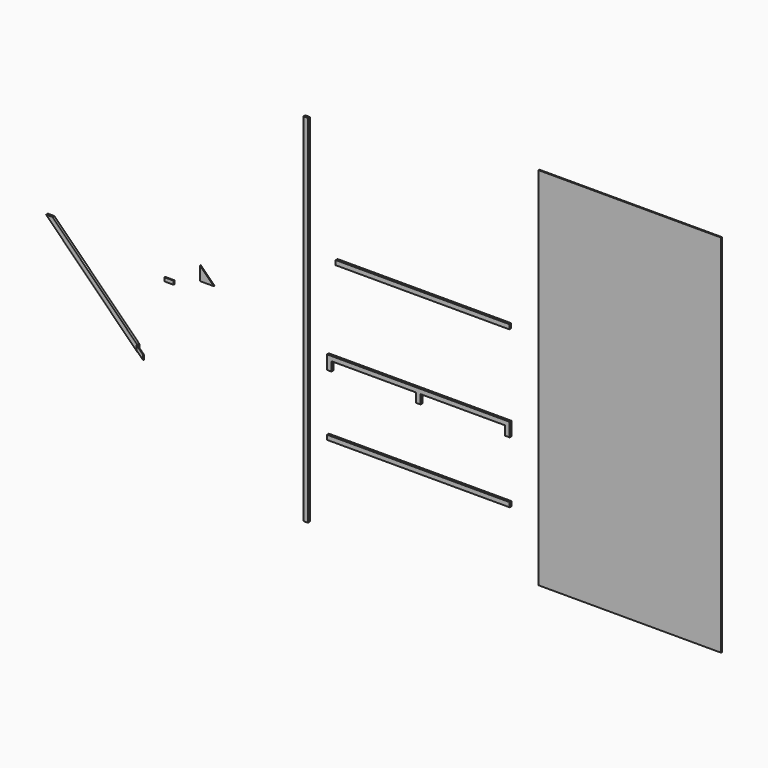
from build123d import *

# Parameters (mm, degrees)
F0_W      = 2000
F0_H      = 50
F1_DEPTH  = 25
F2_W      = 50
F2_H      = 3900
F3_DEPTH  = 25
F5_DEPTH  = 25
F6_W      = 1900
F6_H      = 50
F7_DEPTH  = 25
F9_DEPTH  = 25
F11_DEPTH = 10
F12_W     = 100
F12_H     = 40
F13_DEPTH = 10
F15_DEPTH = 10
F16_W     = 2000
F16_H     = 4000
F17_DEPTH = 12


with BuildPart() as f1:
    # F0 (on Front) → F1 (new body)
    with BuildSketch(Plane.XZ):
        with Locations((1000, -25)):
            Rectangle(F0_W, F0_H)
    extrude(amount=F1_DEPTH)


with BuildPart() as f3:
    # F2 (on Front) → F3 (new body)
    with BuildSketch(Plane.XZ):
        with Locations((-233.900586, 1033.445787)):
            Rectangle(F2_W, F2_H)
    extrude(amount=F3_DEPTH)


with BuildPart() as f5:
    # F4 (on Front) → F5 (new body)
    with BuildSketch(Plane.XZ):
        Polygon((2000, 774.034464), (0, 774.034464), (0, 624.034464), (50, 624.034464), (50, 724.034464), (975, 724.034464), (975, 624.034464), (1025, 624.034464), (1025, 724.034464), (1950, 724.034464), (1950, 624.034464), (2000, 624.034464), align=None)
    extrude(amount=F5_DEPTH)


with BuildPart() as f7:
    # F6 (on Front) → F7 (new body)
    with BuildSketch(Plane.XZ):
        with Locations((1045.526671, 1688.731456)):
            Rectangle(F6_W, F6_H)
    extrude(amount=F7_DEPTH)


with BuildPart() as f9:
    # F8 (on Front) → F9 (new body)
    with BuildSketch(Plane.XZ):
        Polygon((-3004.318933, 1120.322466), (-3075.029612, 1120.322466), (-2075.029612, 120.322466), (-2075.029612, 191.033144), align=None)
    extrude(amount=F9_DEPTH)


with BuildPart() as f11:
    # F10 (on face) → F11 (new body)
    with BuildSketch(Plane.XZ.offset(25)):
        Polygon((-2004.318933, 120.322466), (-2075.029612, 191.033144), (-2075.029612, 141.033144), (-2004.318933, 70.322466), align=None)
    extrude(amount=F11_DEPTH)


with BuildPart() as f13:
    # F12 (on Front) → F13 (new body)
    with BuildSketch(Plane.XZ):
        with Locations((-1741.714168, 908.225138)):
            Rectangle(F12_W, F12_H)
    extrude(amount=F13_DEPTH)


with BuildPart() as f15:
    # F14 (on Front) → F15 (new body)
    with BuildSketch(Plane.XZ):
        Polygon((-1251.659489, 1017.606497), (-1401.659489, 1167.606497), (-1401.659489, 1017.606497), align=None)
    extrude(amount=F15_DEPTH)


with BuildPart() as f17:
    # F16 (on Front) → F17 (new body)
    with BuildSketch(Plane.XZ):
        with Locations((3302.350998, 1293.105304)):
            Rectangle(F16_W, F16_H)
    extrude(amount=F17_DEPTH)


solid = Compound([f1.part, f3.part, f5.part, f7.part, f9.part, f11.part, f13.part, f15.part, f17.part])
